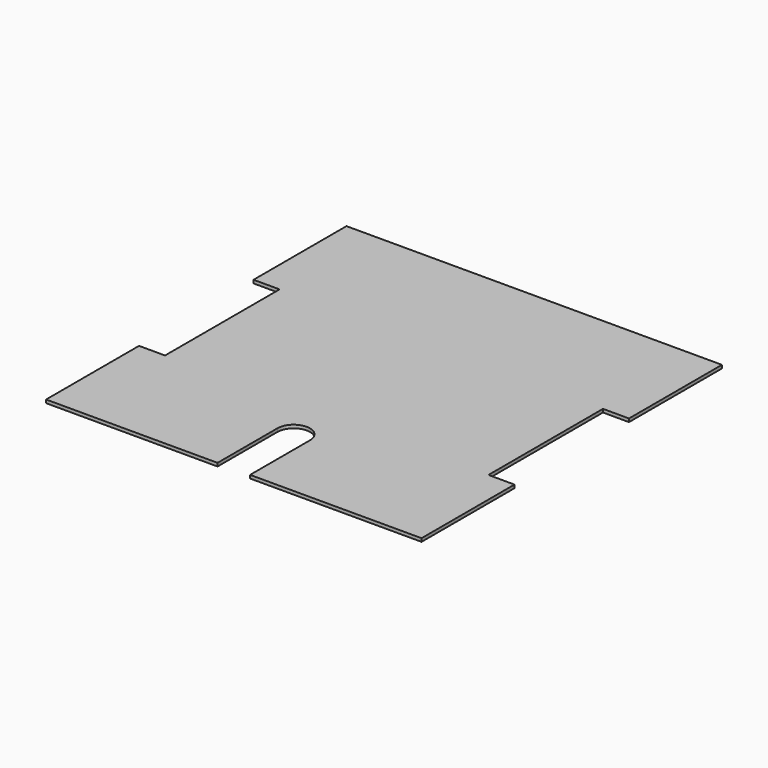
from build123d import *

# Parameters (mm, degrees)
BOX024_W          = 5
BOX024_H          = 12.5
BOX024_DEPTH      = 5
CYLINDER002_R     = 2.5
CYLINDER002_DEPTH = 5
BOX005_W          = 5
BOX005_H          = 22
BOX005_DEPTH      = 1.9
BOX004_W          = 5
BOX004_H          = 22
BOX004_DEPTH      = 1.9
BOX001_W          = 57.7
BOX001_H          = 57.7
BOX001_DEPTH      = 0.5


with BuildPart() as cube:
    # Box024 → Box024 (new body)
    with BuildSketch(Plane(origin=(27.35, 0, 0), x_dir=(1, 0, 0), z_dir=(0, 0, 1))):
        with Locations((2.5, 6.25)):
            Rectangle(BOX024_W, BOX024_H)
    extrude(amount=BOX024_DEPTH)


with BuildPart() as cylinder001:
    # Cylinder002 → Cylinder002 (new body)
    with BuildSketch(Plane(origin=(29.85, 12.5, 0), x_dir=(1, 0, 0), z_dir=(0, 0, 1))):
        Circle(CYLINDER002_R)
    extrude(amount=CYLINDER002_DEPTH)


with BuildPart() as box005:
    # Box005 → Box005 (new body)
    with BuildSketch(Plane(origin=(54.7, 18.85, 1.9), x_dir=(1, 0, 0), z_dir=(0, 0, 1))):
        with Locations((2.5, 11)):
            Rectangle(BOX005_W, BOX005_H)
    extrude(amount=BOX005_DEPTH)


with BuildPart() as box004:
    # Box004 → Box004 (new body)
    with BuildSketch(Plane(origin=(0, 18.85, 1.9), x_dir=(1, 0, 0), z_dir=(0, 0, 1))):
        with Locations((2.5, 11)):
            Rectangle(BOX004_W, BOX004_H)
    extrude(amount=BOX004_DEPTH)


with BuildPart() as cut008:
    # Box001 → Box001 (new body)
    with BuildSketch(Plane(origin=(1, 1, 1.9), x_dir=(1, 0, 0), z_dir=(0, 0, 1))):
        with Locations((28.85, 28.85)):
            Rectangle(BOX001_W, BOX001_H)
    extrude(amount=BOX001_DEPTH)

    # Cut003: cut Box004
    add(box004.part, mode=Mode.SUBTRACT)

    # Cut004: cut Box005
    add(box005.part, mode=Mode.SUBTRACT)

    # Cut007: cut Cylinder001
    add(cylinder001.part, mode=Mode.SUBTRACT)

    # Cut008: cut Cube
    add(cube.part, mode=Mode.SUBTRACT)


solid = cut008.part
